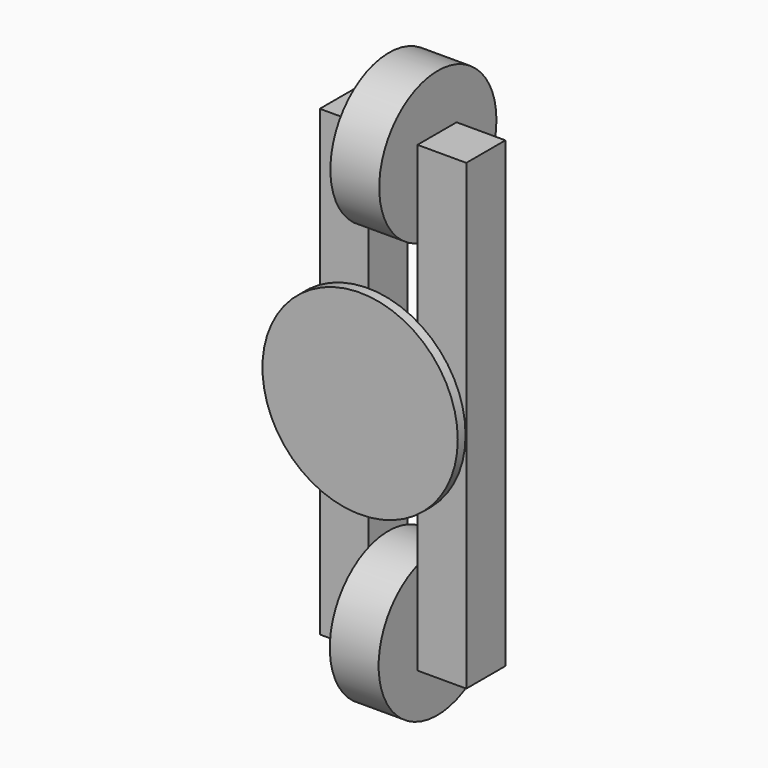
from build123d import *

# Parameters (mm, degrees)
F0_W      = 10
F0_H      = 94.782337
F1_DEPTH  = 10
F2_R      = 15
F3_DEPTH  = 10
F4_R      = 5
F5_DEPTH  = 13.768665
F5_FACE_R = 5
F6_DEPTH  = 3.437768
F7_R      = 1.146529
F8_DEPTH  = 5
F9_R      = 20
F10_DEPTH = 2


with BuildPart() as f1:
    # F0 (on Front) → F1 (new body)
    with BuildSketch(Plane.XZ):
        with Locations((10, -2.548195)):
            Rectangle(F0_W, F0_H)
        with Locations((-10, -2.548195)):
            Rectangle(F0_W, F0_H)
    extrude(amount=F1_DEPTH)



with BuildPart() as f3:
    # F2 (on face) → F3 (new body)
    with BuildSketch(Plane.YZ.offset(-5)):
        with Locations((-4.94337, -45.061424)):
            Circle(F2_R)
        with Locations((-4.792805, 41.101221)):
            Circle(F2_R)
    extrude(amount=F3_DEPTH)


with BuildPart() as f5:
    # F4 (on face) → F5 (new body)
    with BuildSketch(Plane.XZ.offset(10)):
        Circle(F4_R)
    extrude(amount=-F5_DEPTH)


with BuildPart() as f1_1:
    add(f1.part)

    add(f5.part)  # F6 merges F5
    # F5_face (on face) → F6 (join)
    with BuildSketch(Plane.XZ.offset(10)):
        Circle(F5_FACE_R)
    extrude(amount=F6_DEPTH)

    # F7 (on face) → F8 (join)
    with BuildSketch(Plane.XZ.offset(13.437768)):
        Circle(F7_R)
    extrude(amount=F8_DEPTH)

    # F9 (on face) → F10 (join)
    with BuildSketch(Plane.XZ.offset(18.437768)):
        Circle(F9_R)
    extrude(amount=-F10_DEPTH)


solid = Compound([f3.part, f1_1.part])
